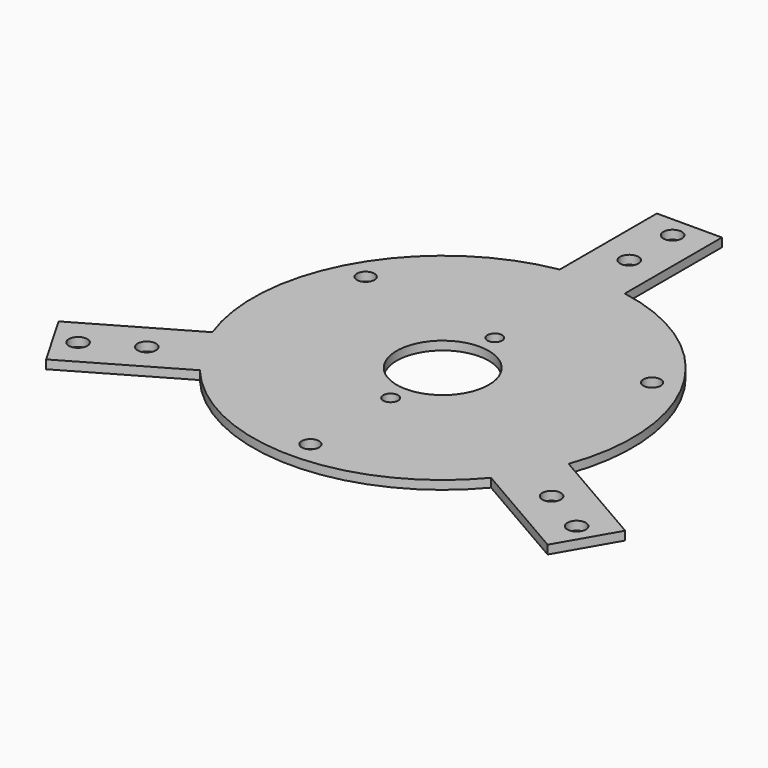
from build123d import *

# Parameters (mm, degrees)
F0_R     = 13.4874
F1_DEPTH = 2.54
F2_R     = 2.7051
F3_R     = 2.5527
F3_R_2   = 2.1717
F4_DEPTH = 2.54


with BuildPart() as f1:
    # F0 (on Top) → F1 (new body)
    with BuildSketch(Plane.XY):
        with BuildLine():
            Line((-9.525, 90.297), (-9.525, 54.739983))
            ThreePointArc((-9.525, 54.739983), (-48.118536, 27.78125), (-52.168716, -19.1211))
            Line((-52.168716, -19.1211), (-82.961996, -36.899608))
            Line((-82.961996, -36.899608), (-73.436996, -53.397392))
            Line((-73.436996, -53.397392), (-42.643716, -35.618884))
            ThreePointArc((-42.643716, -35.618884), (0, -55.5625), (42.643716, -35.618884))
            Line((42.643716, -35.618884), (73.436996, -53.397392))
            Line((73.436996, -53.397392), (82.961996, -36.899608))
            Line((82.961996, -36.899608), (52.168716, -19.1211))
            ThreePointArc((52.168716, -19.1211), (48.118536, 27.78125), (9.525, 54.739983))
            Line((9.525, 54.739983), (9.525, 90.297))
            Line((9.525, 90.297), (-9.525, 90.297))
        make_face()
        Circle(F0_R, mode=Mode.SUBTRACT)
    extrude(amount=F1_DEPTH)

    # F2 (on Top) + F3 (on Top) → F4 (cut)
    with BuildSketch(Plane.XY):
        with Locations((0, 84.1502)):
            Circle(F2_R)
        with Locations((0, 68.2752)):
            Circle(F2_R)
        with Locations((72.872564, -42.081426)):
            Circle(F2_R)
        with Locations((59.155556, -34.090223)):
            Circle(F2_R)
        with Locations((-72.982554, -42.259292)):
            Circle(F2_R)
        with Locations((-59.314336, -34.184924)):
            Circle(F2_R)
    with BuildSketch(Plane.XY):
        with Locations((-41.937367, 24.21255)):
            Circle(F3_R)
        with Locations((41.937367, 24.21255)):
            Circle(F3_R)
        with Locations((0, -48.4251)):
            Circle(F3_R)
        with Locations((0, 19.05)):
            Circle(F3_R_2)
        with Locations((0, -19.05)):
            Circle(F3_R_2)
    extrude(amount=F4_DEPTH, mode=Mode.SUBTRACT)


solid = f1.part
